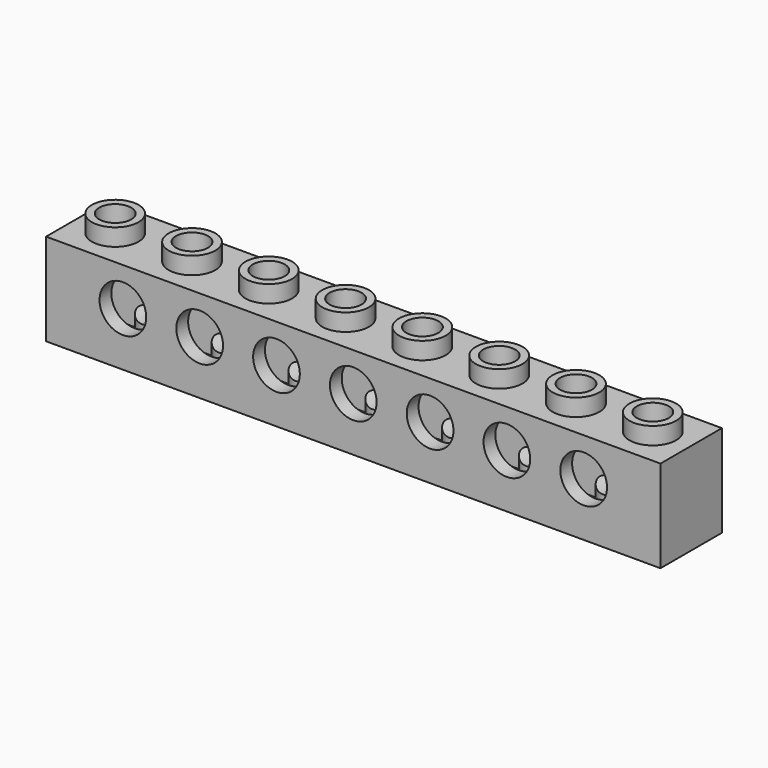
from build123d import *

# Parameters (mm, degrees)
F0_W     = 63.5
F0_H     = 9.525
F1_DEPTH = 7.9375
F2_R     = 2.413
F2_R_2   = 1.651
F3_DEPTH = 1.778
F5_W     = 60.452
F5_H     = 4.8895
F5_R     = 1.5113
F6_DEPTH = 8.0264
F4_R     = 2.413
F7_DEPTH = 7.9385


with BuildPart() as f1:
    # F0 (on Front) → F1 (new body)
    with BuildSketch(Plane.XZ):
        with Locations((31.75, 4.7625)):
            Rectangle(F0_W, F0_H)
    extrude(amount=F1_DEPTH)

    # F2 (on face) → F3 (join)
    with BuildSketch(Plane.XY.offset(9.525)):
        with Locations((3.96875, -3.96875)):
            Circle(F2_R)
        with Locations((3.96875, -3.96875)):
            Circle(F2_R_2, mode=Mode.SUBTRACT)
        with Locations((11.90625, -3.96875)):
            Circle(F2_R)
        with Locations((11.90625, -3.96875)):
            Circle(F2_R_2, mode=Mode.SUBTRACT)
        with Locations((19.84375, -3.96875)):
            Circle(F2_R)
        with Locations((19.84375, -3.96875)):
            Circle(F2_R_2, mode=Mode.SUBTRACT)
        with Locations((35.71875, -3.96875)):
            Circle(F2_R)
        with Locations((35.71875, -3.96875)):
            Circle(F2_R_2, mode=Mode.SUBTRACT)
        with Locations((27.78125, -3.96875)):
            Circle(F2_R)
        with Locations((27.78125, -3.96875)):
            Circle(F2_R_2, mode=Mode.SUBTRACT)
        with Locations((43.65625, -3.96875)):
            Circle(F2_R)
        with Locations((43.65625, -3.96875)):
            Circle(F2_R_2, mode=Mode.SUBTRACT)
        with Locations((51.59375, -3.96875)):
            Circle(F2_R)
        with Locations((51.59375, -3.96875)):
            Circle(F2_R_2, mode=Mode.SUBTRACT)
        with Locations((59.53125, -3.96875)):
            Circle(F2_R)
        with Locations((59.53125, -3.96875)):
            Circle(F2_R_2, mode=Mode.SUBTRACT)
    extrude(amount=F3_DEPTH)

    # F5 (on face) → F6 (cut)
    with BuildSketch(Plane(origin=(0, 0, 0), x_dir=(1, 0, 0), z_dir=(0, 0, -1))):
        with Locations((31.75, 3.96875)):
            Rectangle(F5_W, F5_H)
        with Locations((7.9375, 3.96875)):
            Circle(F5_R, mode=Mode.SUBTRACT)
        with Locations((15.875, 3.96875)):
            Circle(F5_R, mode=Mode.SUBTRACT)
        with Locations((23.8125, 3.96875)):
            Circle(F5_R, mode=Mode.SUBTRACT)
        with Locations((31.75, 3.96875)):
            Circle(F5_R, mode=Mode.SUBTRACT)
        with Locations((39.6875, 3.96875)):
            Circle(F5_R, mode=Mode.SUBTRACT)
        with Locations((47.625, 3.96875)):
            Circle(F5_R, mode=Mode.SUBTRACT)
        with Locations((55.5625, 3.96875)):
            Circle(F5_R, mode=Mode.SUBTRACT)
    extrude(amount=-F6_DEPTH, mode=Mode.SUBTRACT)

    # F4 (on Front) → F7 (cut, through all)
    with BuildSketch(Plane.XZ):
        with Locations((7.9375, 5.55625)):
            Circle(F4_R)
        with Locations((15.875, 5.55625)):
            Circle(F4_R)
        with Locations((23.8125, 5.55625)):
            Circle(F4_R)
        with Locations((31.75, 5.55625)):
            Circle(F4_R)
        with Locations((39.6875, 5.55625)):
            Circle(F4_R)
        with Locations((47.625, 5.55625)):
            Circle(F4_R)
        with Locations((55.5625, 5.55625)):
            Circle(F4_R)
    extrude(amount=F7_DEPTH, mode=Mode.SUBTRACT)


solid = f1.part
